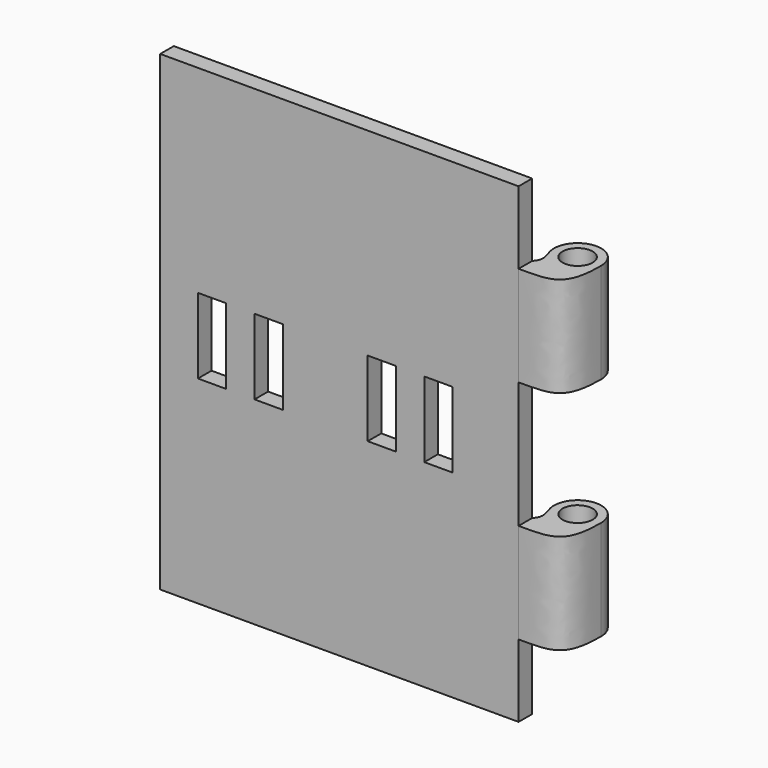
from build123d import *

# Parameters (mm, degrees)
F0_W     = 38
F0_H     = 1.8
F0_R     = 1.6
F1_DEPTH = 50
F2_W     = 39.500002
F2_H     = 7.7
F2_H_2   = 13.4
F2_W_2   = 59.247335
F2_H_3   = 31.547058
F3_DEPTH = 25
F4_W     = 3
F4_H     = 8
F5_DEPTH = 1.8


with BuildPart() as f1:
    # F0 (on Top) → F1 (new body)
    with BuildSketch(Plane.XY):
        with Locations((-19, 0)):
            Rectangle(F0_W, F0_H)
        with BuildLine():
            add(Edge.make_bspline(
                [(0, 3.8), (0, 2.602653), (0.90178, 1.877582), (0, 0.9)],
                knots=[0, 0, 0, 0, 2.9, 2.9, 2.9, 2.9], degree=3))
            Line((0, 0.9), (0, -0.9))
            add(Edge.make_bspline(
                [(0, -0.9), (3.389107, -0.9), (5, -1.015936), (5, 3.8)],
                knots=[0, 0, 0, 0, 6.862215, 6.862215, 6.862215, 6.862215], degree=3))
            ThreePointArc((5, 3.8), (2.5, 6.3), (0, 3.8))
        make_face()
        with Locations((2.5, 3.8)):
            Circle(F0_R, mode=Mode.SUBTRACT)
    extrude(amount=F1_DEPTH)

    # F2 (on Right) → F3 (cut)
    with BuildSketch(Plane.YZ):
        with Locations((1.306903, 3.85)):
            Rectangle(F2_W, F2_H)
        with Locations((0.349251, 25)):
            Rectangle(F2_W, F2_H_2)
        with Locations((-2.001637, 58.073529)):
            Rectangle(F2_W_2, F2_H_3)
    extrude(amount=F3_DEPTH, mode=Mode.SUBTRACT)

    # F4 (on face) → F5 (cut, through all)
    with BuildSketch(Plane.XZ.offset(0.9)):
        with Locations((-32.5, 25)):
            Rectangle(F4_W, F4_H)
        with Locations((-26.5, 25)):
            Rectangle(F4_W, F4_H)
        with Locations((-14.5, 25)):
            Rectangle(F4_W, F4_H)
        with Locations((-8.5, 25)):
            Rectangle(F4_W, F4_H)
    extrude(amount=-F5_DEPTH, mode=Mode.SUBTRACT)


solid = f1.part
